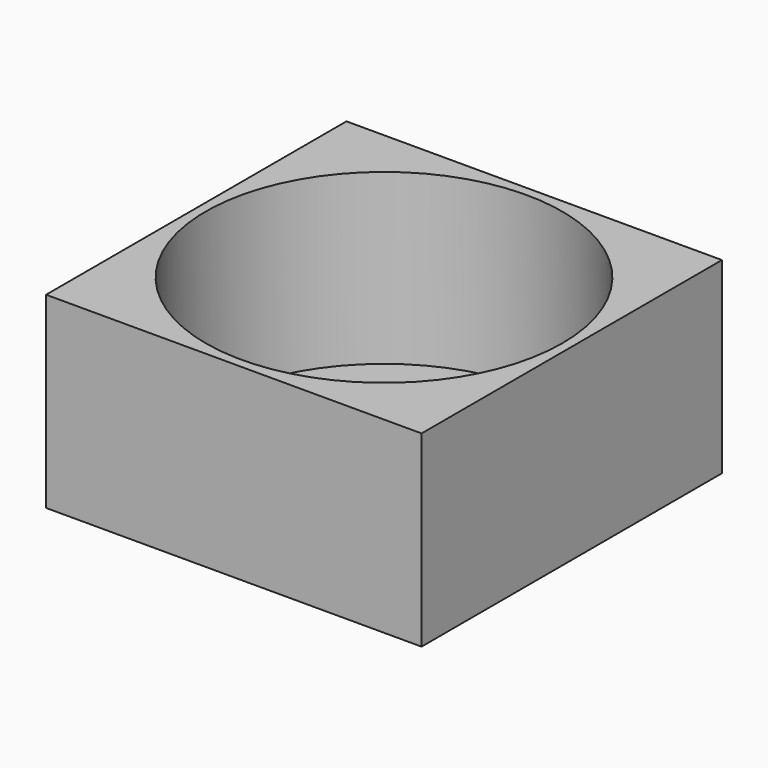
from build123d import *

# Parameters (mm, degrees)
CYLINDER005_R     = 1.58
CYLINDER005_DEPTH = 20
CYLINDER001_R     = 2
CYLINDER001_DEPTH = 20
CYLINDER002_R     = 1.58
CYLINDER002_DEPTH = 20
CYLINDER003_R     = 1.58
CYLINDER003_DEPTH = 20
CYLINDER004_R     = 1.58
CYLINDER004_DEPTH = 20
CYLINDER_R        = 19
CYLINDER_DEPTH    = 19
BOX_W             = 40
BOX_H             = 40
BOX_DEPTH         = 20


with BuildPart() as cylinder005:
    # Cylinder005 → Cylinder005 (new body)
    with BuildSketch(Plane(origin=(4.95, 4.6, -2), x_dir=(1, 0, 0), z_dir=(0, 0, 1))):
        Circle(CYLINDER005_R)
    extrude(amount=CYLINDER005_DEPTH)


with BuildPart() as cylinder001:
    # Cylinder001 → Cylinder001 (new body)
    with BuildSketch(Plane.XY.offset(-2)):
        Circle(CYLINDER001_R)
    extrude(amount=CYLINDER001_DEPTH)


with BuildPart() as cylinder002:
    # Cylinder002 → Cylinder002 (new body)
    with BuildSketch(Plane(origin=(-4.95, 4.6, -2), x_dir=(1, 0, 0), z_dir=(0, 0, 1))):
        Circle(CYLINDER002_R)
    extrude(amount=CYLINDER002_DEPTH)


with BuildPart() as cylinder003:
    # Cylinder003 → Cylinder003 (new body)
    with BuildSketch(Plane(origin=(4.95, -4.6, -2), x_dir=(1, 0, 0), z_dir=(0, 0, 1))):
        Circle(CYLINDER003_R)
    extrude(amount=CYLINDER003_DEPTH)


with BuildPart() as cylinder004:
    # Cylinder004 → Cylinder004 (new body)
    with BuildSketch(Plane(origin=(-4.95, -4.6, -2), x_dir=(1, 0, 0), z_dir=(0, 0, 1))):
        Circle(CYLINDER004_R)
    extrude(amount=CYLINDER004_DEPTH)


with BuildPart() as cylinder:
    # Cylinder → Cylinder (new body)
    with BuildSketch(Plane.XY):
        Circle(CYLINDER_R)
    extrude(amount=CYLINDER_DEPTH)


with BuildPart() as cut005:
    # Box → Box (new body)
    with BuildSketch(Plane(origin=(-20, -20, -2), x_dir=(1, 0, 0), z_dir=(0, 0, 1))):
        with Locations((20, 20)):
            Rectangle(BOX_W, BOX_H)
    extrude(amount=BOX_DEPTH)

    # Cut: cut Cylinder
    add(cylinder.part, mode=Mode.SUBTRACT)

    # Cut001: cut Cylinder004
    add(cylinder004.part, mode=Mode.SUBTRACT)

    # Cut002: cut Cylinder003
    add(cylinder003.part, mode=Mode.SUBTRACT)

    # Cut003: cut Cylinder002
    add(cylinder002.part, mode=Mode.SUBTRACT)

    # Cut004: cut Cylinder001
    add(cylinder001.part, mode=Mode.SUBTRACT)

    # Cut005: cut Cylinder005
    add(cylinder005.part, mode=Mode.SUBTRACT)


solid = cut005.part
